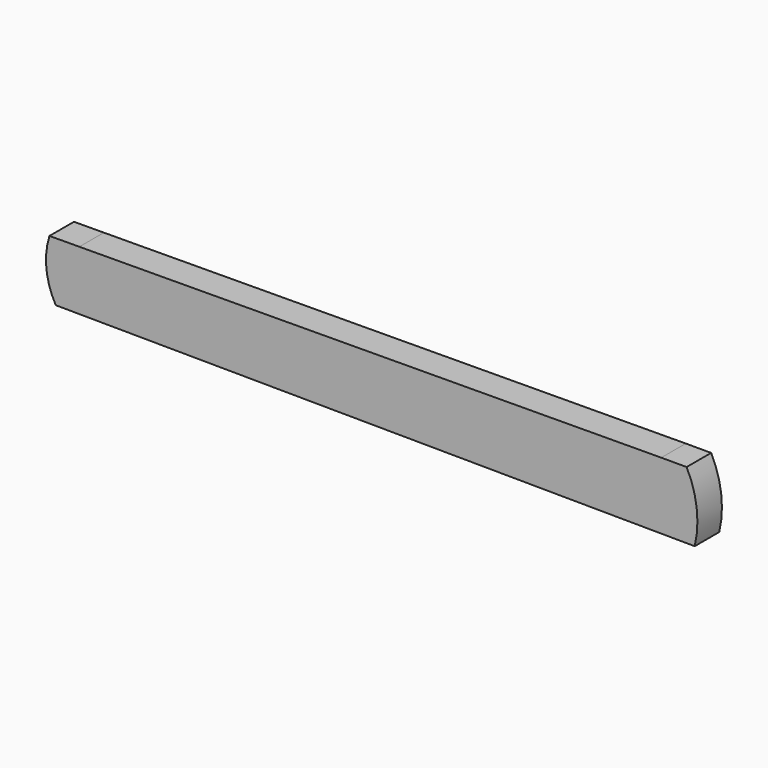
from build123d import *

# Parameters (mm, degrees)
F2_DEPTH = 25


with BuildPart() as f2:
    # F1 (on face) → F2 (new body)
    with BuildSketch(Plane.XZ):
        with BuildLine():
            ThreePointArc((307.522314, 136.204265), (309.150117, 164.161267), (300.922203, 190.929627))
            Line((300.922203, 190.929627), (299.40453, 190.929627))
            Line((299.40453, 190.929627), (280.23421, 190.929627))
            Line((280.23421, 190.929627), (-194.487512, 188.015388))
            Line((-194.487512, 188.015388), (-218.880566, 187.865643))
            ThreePointArc((-218.880566, 187.865643), (-221.348908, 163.277257), (-213.697833, 139.779545))
            Line((-213.697833, 139.779545), (294.608427, 136.292847))
            Line((294.608427, 136.292847), (307.522314, 136.204265))
        make_face()
    extrude(amount=F2_DEPTH)


solid = f2.part
